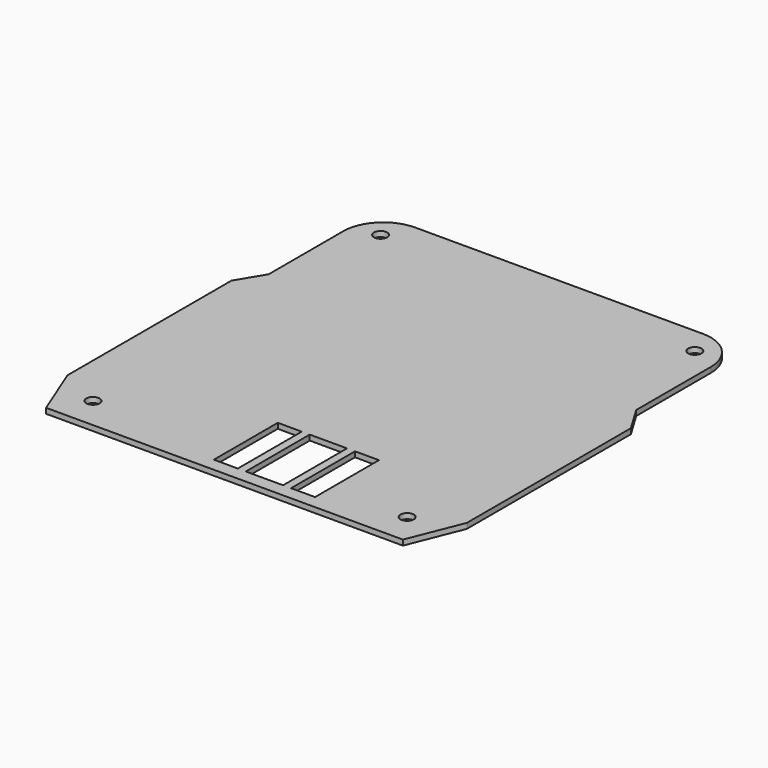
from build123d import *

# Parameters (mm, degrees)
F0_R     = 2.5
F0_W     = 3
F0_H     = 30
F1_DEPTH = 2


with BuildPart() as f1:
    # F0 (on Top) → F1 (new body)
    with BuildSketch(Plane.XY):
        with BuildLine():
            Line((54, 10), (0, 10))
            Line((0, 10), (-54, 10))
            ThreePointArc((-54, 10), (-64.606602, 5.606602), (-69, -5))
            Line((-69, -5), (-69, -40))
            Line((-69, -40), (-75, -50))
            Line((-75, -50), (-75, -127))
            Line((-75, -127), (-67, -147))
            Line((-67, -147), (0, -147))
            Line((0, -147), (67, -147))
            Line((67, -147), (75, -127))
            Line((75, -127), (75, -50))
            Line((75, -50), (69, -40))
            Line((69, -40), (69, -5))
            ThreePointArc((69, -5), (64.606602, 5.606602), (54, 10))
        make_face()
        with Locations((-59, -135)):
            Circle(F0_R, mode=Mode.SUBTRACT)
        Polygon((30, -112), (30, -142), (21, -142), (18, -142), (4, -142), (1, -142), (-8, -142), (-8, -112), (1, -112), (4, -112), (18, -112), (21, -112), align=None, mode=Mode.SUBTRACT)
        with Locations((59, -135)):
            Circle(F0_R, mode=Mode.SUBTRACT)
        with Locations((-59, 0)):
            Circle(F0_R, mode=Mode.SUBTRACT)
        with Locations((59, 0)):
            Circle(F0_R, mode=Mode.SUBTRACT)
        with Locations((2.5, -127)):
            Rectangle(F0_W, F0_H)
        with Locations((19.5, -127)):
            Rectangle(F0_W, F0_H)
    extrude(amount=F1_DEPTH)


solid = f1.part
